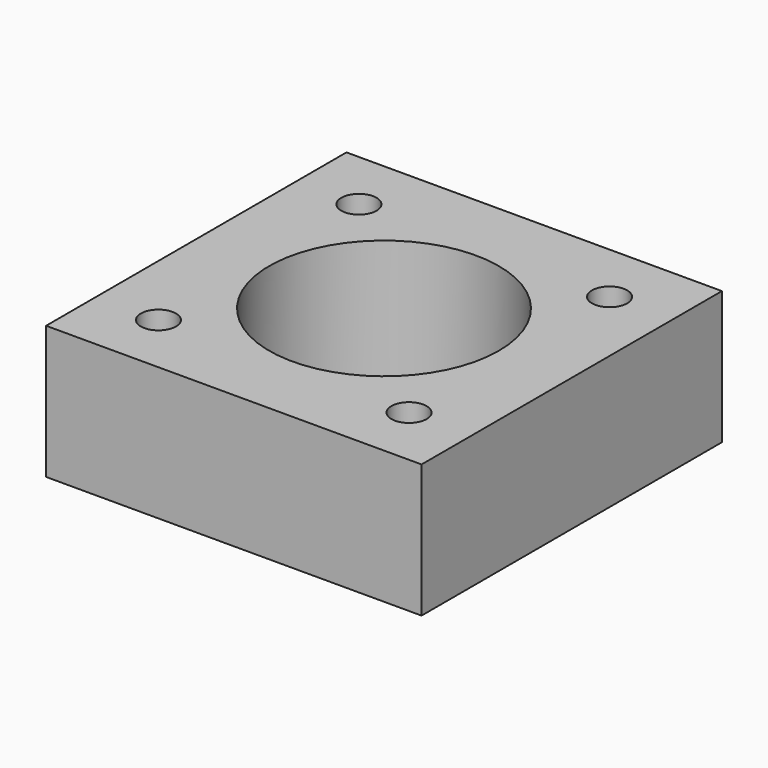
from build123d import *

# Parameters (mm, degrees)
F0_W     = 50.8
F0_H     = 50.8
F0_R     = 2.38125
F0_R_2   = 15.5321
F1_DEPTH = 18.0086


with BuildPart() as f1:
    # F0 (on Top) → F1 (new body)
    with BuildSketch(Plane.XY):
        Rectangle(F0_W, F0_H)
        with Locations((-16.954631, -16.954631)):
            Circle(F0_R, mode=Mode.SUBTRACT)
        Circle(F0_R_2, mode=Mode.SUBTRACT)
        with Locations((16.954631, -16.954631)):
            Circle(F0_R, mode=Mode.SUBTRACT)
        with Locations((-16.954631, 16.954631)):
            Circle(F0_R, mode=Mode.SUBTRACT)
        with Locations((16.954631, 16.954631)):
            Circle(F0_R, mode=Mode.SUBTRACT)
    extrude(amount=F1_DEPTH)


solid = f1.part
